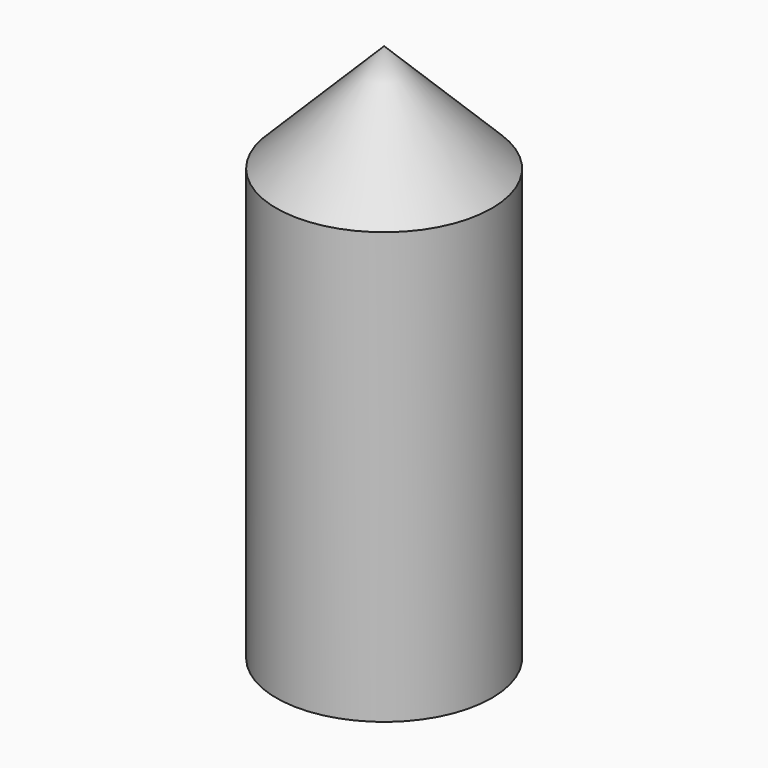
from build123d import *

# Parameters (mm, degrees)
F0_R     = 12.7
F1_DEPTH = 50.8
F2_R     = 10.16
F3_DEPTH = 48.26
F4_R     = 12.7
F5_DEPTH = 25.4
F5_TAPER = 45


with BuildPart() as f1:
    # F0 (on Top) → F1 (new body)
    with BuildSketch(Plane.XY):
        Circle(F0_R)
    extrude(amount=F1_DEPTH)

    # F2 (on face) → F3 (cut)
    with BuildSketch(Plane.XY.offset(50.8)):
        Circle(F2_R)
    extrude(amount=-F3_DEPTH, mode=Mode.SUBTRACT)

    # F4 (on face) → F5 (join)
    with BuildSketch(Plane.XY.offset(50.8)):
        Circle(F4_R)
    extrude(amount=F5_DEPTH, taper=F5_TAPER)


solid = f1.part
